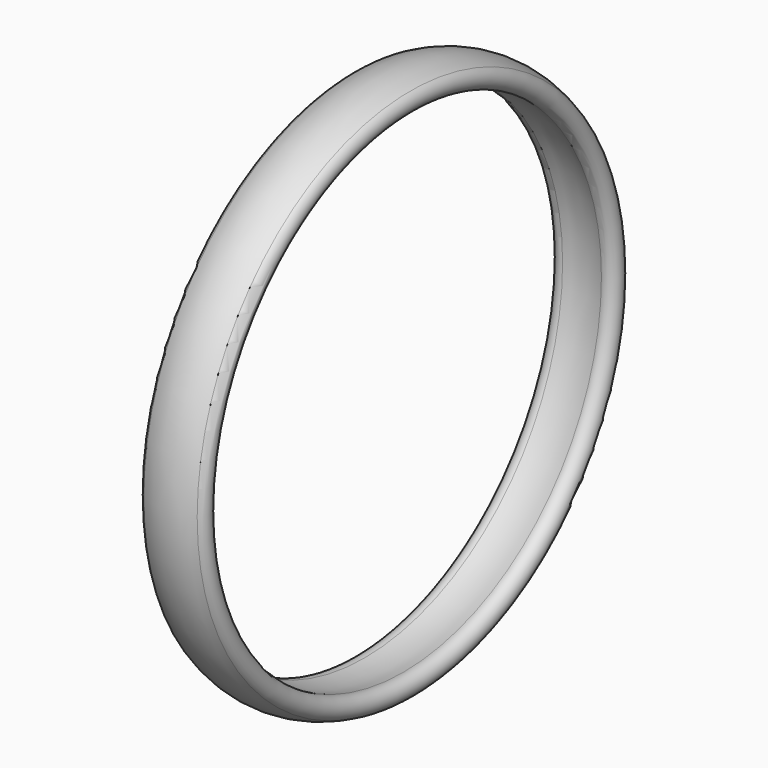
from build123d import *


with BuildPart() as part:
    # Sketch → Revolution (revolve)
    with BuildSketch(Plane.XY):
        with BuildLine():
            ThreePointArc((50.029499, -956.197795), (2.533381, -980.910987), (22.163934, -1030.723279))
            ThreePointArc((22.163934, -1030.723279), (125, -1054.92), (227.836066, -1030.723279))
            ThreePointArc((227.836066, -1030.723279), (247.466619, -980.910987), (199.970501, -956.197795))
            ThreePointArc((50.029499, -956.197795), (125, -965.749313), (199.970501, -956.197795))
        make_face()
    revolve(axis=Axis((0, 0, 0), (1, 0, 0)))


solid = part.part
